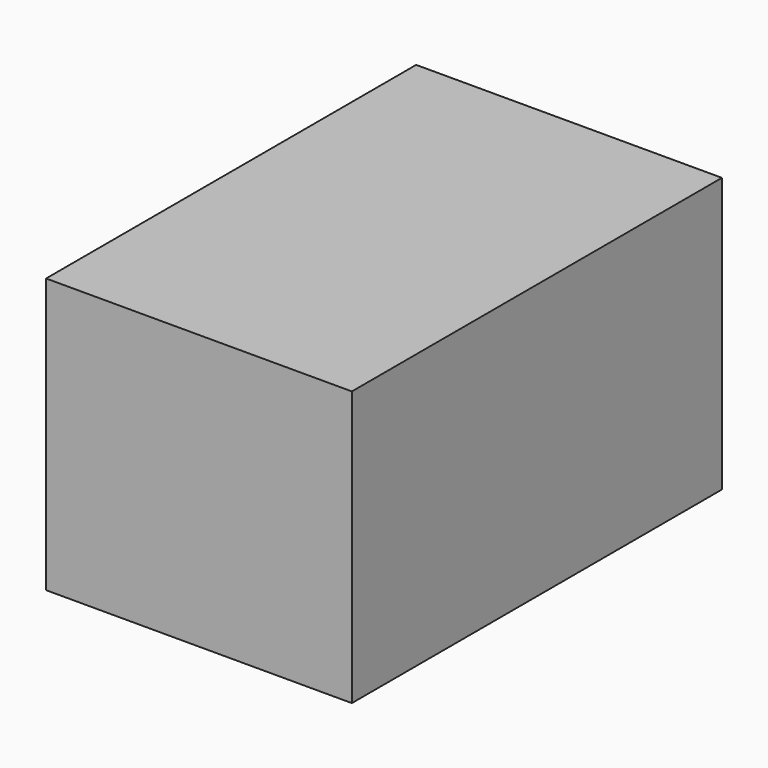
from build123d import *

# Parameters (mm, degrees)
F0_W     = 19.5
F0_H     = 29.5
F1_DEPTH = 17.5
F2_W     = 15.5
F2_H     = 25.5
F3_DEPTH = 17


with BuildPart() as f1:
    # F0 (on Top) → F1 (new body)
    with BuildSketch(Plane.XY):
        Rectangle(F0_W, F0_H)
    extrude(amount=F1_DEPTH)

    # F2 (on Top) → F3 (cut)
    with BuildSketch(Plane.XY):
        Rectangle(F2_W, F2_H)
    extrude(amount=F3_DEPTH, mode=Mode.SUBTRACT)


solid = f1.part
